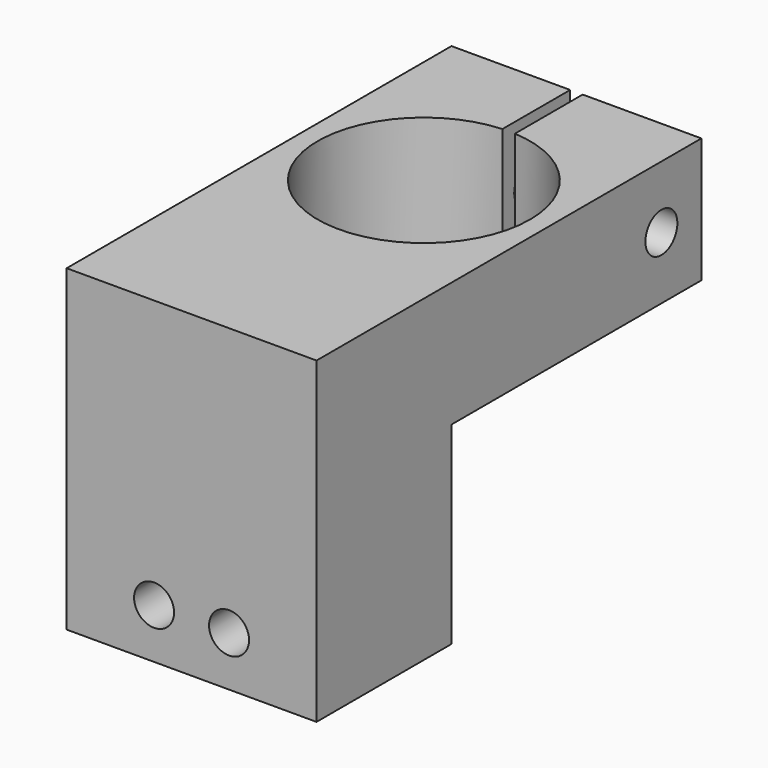
from build123d import *

# Parameters (mm, degrees)
F0_W      = 20
F0_H      = 25
F0_R      = 8.5
F1_DEPTH  = 10
F2_W      = 1
F2_H      = 6.779089
F3_DEPTH  = 10
F4_R      = 1.6
F5_DEPTH  = 20
F6_W      = 20
F6_H      = 10.463078
F7_DEPTH  = 13.5
F8_W      = 20
F8_H      = 13.5
F9_DEPTH  = 15
F10_R     = 1.6
F11_DEPTH = 14


with BuildPart() as f1:
    # F0 (on Top) → F1 (new body)
    with BuildSketch(Plane.XY):
        Rectangle(F0_W, F0_H)
        with Locations((0, -2.764371)):
            Circle(F0_R, mode=Mode.SUBTRACT)
    extrude(amount=F1_DEPTH)

    # F2 (on face) → F3 (cut)
    with BuildSketch(Plane.XY.offset(10)):
        with Locations((0, 9.110456)):
            Rectangle(F2_W, F2_H)
    extrude(amount=-F3_DEPTH, mode=Mode.SUBTRACT)

    # F4 (on face) → F5 (cut)
    with BuildSketch(Plane(origin=(-10, 0, 0), x_dir=(0, -1, 0), z_dir=(-1, 0, 0))):
        with Locations((-8.5, 5)):
            Circle(F4_R)
    extrude(amount=-F5_DEPTH, mode=Mode.SUBTRACT)

    # F6 (on face) → F7 (join)
    with BuildSketch(Plane.XZ.offset(12.5)):
        with Locations((0, 4.768461)):
            Rectangle(F6_W, F6_H)
    extrude(amount=F7_DEPTH)

    # F8 (on face) → F9 (join)
    with BuildSketch(Plane(origin=(0, 0, -0.463078), x_dir=(1, 0, 0), z_dir=(0, 0, -1))):
        with Locations((0, 19.25)):
            Rectangle(F8_W, F8_H)
    extrude(amount=F9_DEPTH)

    # F10 (on face) → F11 (cut)
    with BuildSketch(Plane(origin=(0, -12.5, 0), x_dir=(-1, 0, 0), z_dir=(0, 1, 0))):
        with Locations((-3, -11.463078)):
            Circle(F10_R)
        with Locations((3, -11.463078)):
            Circle(F10_R)
    extrude(amount=-F11_DEPTH, mode=Mode.SUBTRACT)


solid = f1.part
